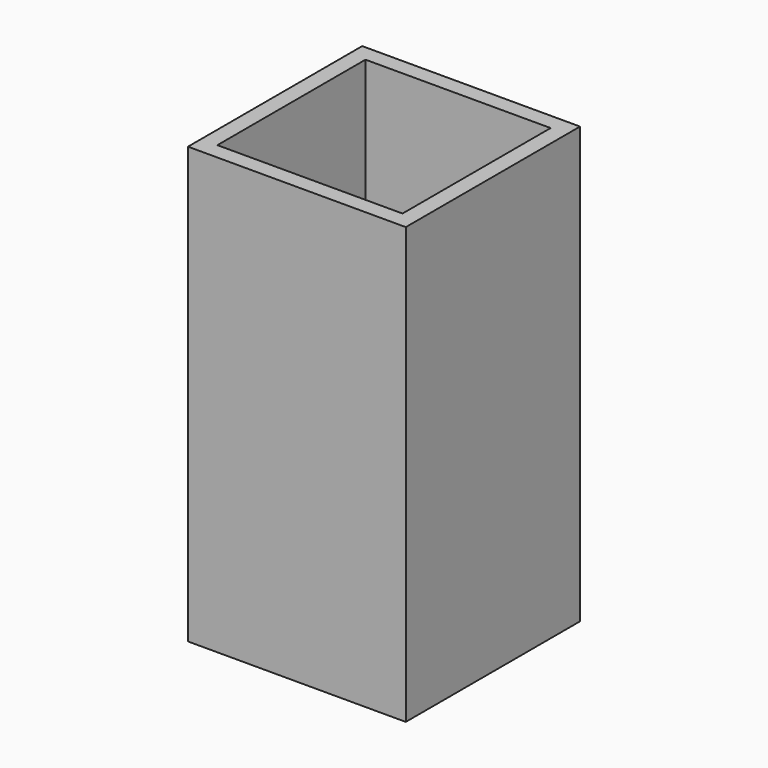
from build123d import *

# Parameters (mm, degrees)
SKETCH_W     = 40
SKETCH_H     = 40
PAD_DEPTH    = 80
SKETCH001_W  = 34
SKETCH001_H  = 34
POCKET_DEPTH = 80


with BuildPart() as part:
    # Sketch → Pad (new body)
    with BuildSketch(Plane.XY):
        with Locations((20, 20)):
            Rectangle(SKETCH_W, SKETCH_H)
    extrude(amount=PAD_DEPTH)

    # Sketch001 (on Face6 of Pad) → Pocket (cut)
    with BuildSketch(Plane.XY.offset(80)):
        with Locations((20, 20)):
            Rectangle(SKETCH001_W, SKETCH001_H)
    extrude(amount=-POCKET_DEPTH, mode=Mode.SUBTRACT)


solid = part.part
